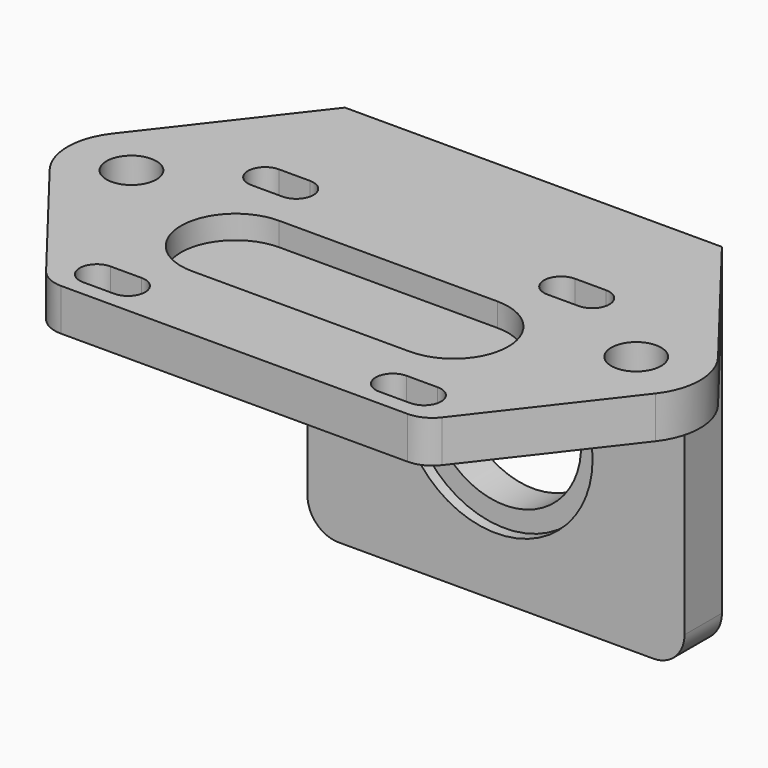
from build123d import *

# Parameters (mm, degrees)
SKETCH_W        = 24.2
SKETCH_H        = 24
PAD_DEPTH       = 2.7
SKETCH001_W     = 24.2
SKETCH001_H     = 3
PAD001_DEPTH    = 20
POCKET_DEPTH    = 1.5
CHAMFER_SIZE    = 3
SKETCH003_W     = 17
SKETCH003_H     = 3
POCKET001_DEPTH = 21.001
SKETCH004_W     = 17
SKETCH004_H     = 1
POCKET002_DEPTH = 6
SKETCH005_R     = 4.9
POCKET003_DEPTH = 2.3
SKETCH006_R     = 6.2
POCKET004_DEPTH = 0.7
SKETCH007_R     = 1.6
PAD002_DEPTH    = 2.7
FILLET_R        = 2


with BuildPart() as part:
    # Sketch → Pad (new body)
    with BuildSketch(Plane.XY):
        Rectangle(SKETCH_W, SKETCH_H)
        with BuildLine():
            ThreePointArc((-10.5, 4.7), (-11.6, 3.6), (-10.5, 2.5))
            Line((-10.5, 2.5), (-8.5, 2.5))
            ThreePointArc((-8.5, 2.5), (-7.4, 3.6), (-8.5, 4.7))
            Line((-8.5, 4.7), (-10.5, 4.7))
        make_face(mode=Mode.SUBTRACT)
        with BuildLine():
            ThreePointArc((-10.5, -8.8), (-11.6, -9.9), (-10.5, -11))
            Line((-10.5, -11), (-8.5, -11))
            ThreePointArc((-8.5, -11), (-7.4, -9.9), (-8.5, -8.8))
            Line((-8.5, -8.8), (-10.5, -8.8))
        make_face(mode=Mode.SUBTRACT)
        with BuildLine():
            ThreePointArc((10.5, -11), (11.6, -9.9), (10.5, -8.8))
            Line((10.5, -8.8), (8.5, -8.8))
            ThreePointArc((8.5, -8.8), (7.4, -9.9), (8.5, -11))
            Line((8.5, -11), (10.5, -11))
        make_face(mode=Mode.SUBTRACT)
        with BuildLine():
            ThreePointArc((10.5, 2.5), (11.6, 3.6), (10.5, 4.7))
            Line((10.5, 4.7), (8.5, 4.7))
            ThreePointArc((8.5, 4.7), (7.4, 3.6), (8.5, 2.5))
            Line((8.5, 2.5), (10.5, 2.5))
        make_face(mode=Mode.SUBTRACT)
    extrude(amount=PAD_DEPTH)

    # Sketch001 (on Face21 of Pad) → Pad001 (join)
    with BuildSketch(Plane(origin=(0, 0, 0), x_dir=(1, 0, 0), z_dir=(0, 0, -1))):
        with Locations((0, -10.5)):
            Rectangle(SKETCH001_W, SKETCH001_H)
    extrude(amount=PAD001_DEPTH)

    # Sketch002 (on Face5 of Pad001) → Pocket (cut)
    with BuildSketch(Plane.XY.offset(2.7)):
        with BuildLine():
            ThreePointArc((-7, 0.35), (-10.5, -3.15), (-7, -6.65))
            Line((-7, -6.65), (7, -6.65))
            ThreePointArc((7, -6.65), (10.5, -3.15), (7, 0.35))
            Line((7, 0.35), (-7, 0.35))
        make_face()
    extrude(amount=-POCKET_DEPTH, mode=Mode.SUBTRACT)

    # Chamfer
    chamfer_edges = [part.edges().sort_by_distance(p)[0] for p in [
        (0, 9, 0),
    ]]
    chamfer(chamfer_edges, length=CHAMFER_SIZE)

    # Sketch003 (on Face25 of Chamfer) → Pocket001 (cut, through all)
    with BuildSketch(Plane.XZ.offset(-9)):
        with Locations((0, -1.5)):
            Rectangle(SKETCH003_W, SKETCH003_H)
    extrude(amount=POCKET001_DEPTH, mode=Mode.SUBTRACT)

    # Sketch004 (on Face6 of Pocket001) → Pocket002 (cut)
    with BuildSketch(Plane(origin=(0, 12, 0), x_dir=(-1, 0, 0), z_dir=(0, 1, 0))):
        Rectangle(SKETCH004_W, SKETCH004_H)
    extrude(amount=-POCKET002_DEPTH, mode=Mode.SUBTRACT)

    # Sketch005 (on Face17 of Pocket002) → Pocket003 (cut)
    with BuildSketch(Plane(origin=(0, 12, 0), x_dir=(-1, 0, 0), z_dir=(0, 1, 0))):
        with Locations((0, -10)):
            Circle(SKETCH005_R)
    extrude(amount=-POCKET003_DEPTH, mode=Mode.SUBTRACT)

    # Sketch006 (on Face15 of Pocket003) → Pocket004 (cut)
    with BuildSketch(Plane.XZ.offset(-9)):
        with Locations((0, -10)):
            Circle(SKETCH006_R)
    extrude(amount=-POCKET004_DEPTH, mode=Mode.SUBTRACT)

    # Sketch007 (on Face5 of Pocket004) → Pad002 (join)
    with BuildSketch(Plane.XY.offset(2.7)):
        with BuildLine():
            ThreePointArc((-19.442827, 2.508799), (-20.3, 0), (-19.442827, -2.508799))
            Line((-12.1, -12), (-19.442827, -2.508799))
            Line((-12.1, -12), (-12.1, 12))
            Line((-12.1, 12), (-19.442827, 2.508799))
        make_face()
        with Locations((-16.2, 0)):
            Circle(SKETCH007_R, mode=Mode.SUBTRACT)
        with BuildLine():
            ThreePointArc((19.442827, -2.508799), (20.3, 0), (19.442827, 2.508799))
            Line((12.1, 12), (19.442827, 2.508799))
            Line((12.1, 12), (12.1, -12))
            Line((12.1, -12), (19.442827, -2.508799))
        make_face()
        with Locations((16.2, 0)):
            Circle(SKETCH007_R, mode=Mode.SUBTRACT)
    extrude(amount=-PAD002_DEPTH)

    # Fillet
    fillet_edges = [part.edges().sort_by_distance(p)[0] for p in [
        (12.1, -12, 1.35),
        (-12.1, -12, 1.35),
        (12.1, 10.5, -20),
        (-12.1, 10.5, -20),
    ]]
    fillet(fillet_edges, radius=FILLET_R)


solid = part.part
